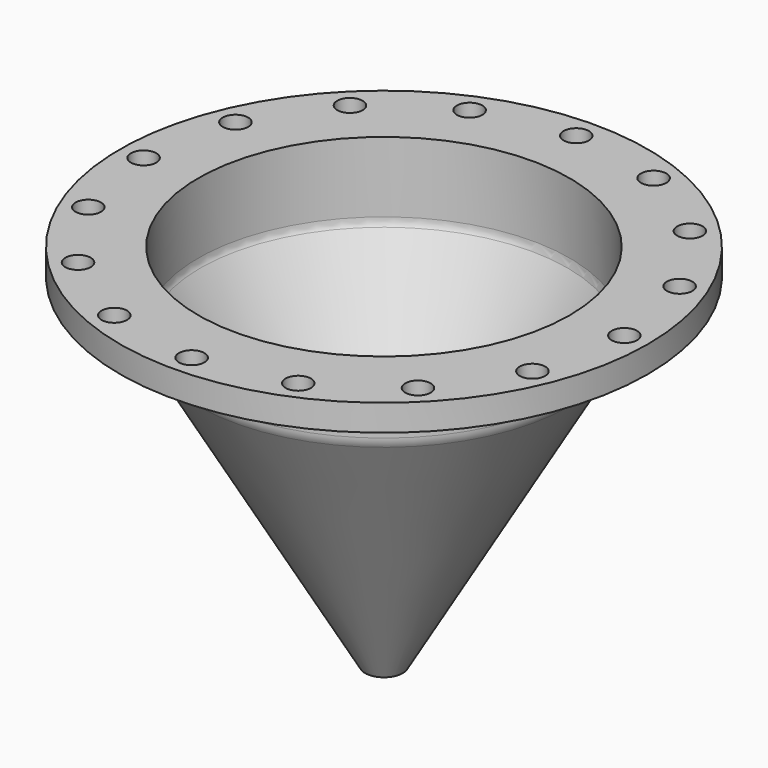
from build123d import *

# Parameters (mm, degrees)
F0_R     = 280
F0_R_2   = 200
F1_DEPTH = 28
F4_R     = 13.5
F5_DEPTH = 28


with BuildPart() as f1:
    # F0 (on Top) → F1 (new body)
    with BuildSketch(Plane.XY):
        Circle(F0_R)
        Circle(F0_R_2, mode=Mode.SUBTRACT)
    extrude(amount=F1_DEPTH)

    # F2 (on Front) → F3 (revolve)
    with BuildSketch(Plane.XZ):
        with BuildLine():
            Line((200, -46.641016), (200, 28))
            Line((200, 28), (197, 28))
            Line((197, 28), (197, -46.641016))
            ThreePointArc((197, -46.641016), (196.420739, -51.04094), (194.722432, -55.141016))
            Line((194.722432, -55.141016), (18.267949, -360.769145))
            Line((18.267949, -360.769145), (0, -360.769145))
            Line((0, -360.769145), (0, -363.769145))
            Line((0, -363.769145), (20, -363.769145))
            Line((20, -363.769145), (197.320508, -56.641016))
            ThreePointArc((197.320508, -56.641016), (199.318517, -51.817397), (200, -46.641016))
        make_face()
    revolve(axis=Axis((0, 0, -362.269145), (0, 0, -1)))

    # F4 (on face) → F5 (cut, through all)
    with BuildSketch(Plane.XY.offset(28)):
        with Locations((255, 0)):
            Circle(F4_R)
        with Locations((235.589281, 97.584275)):
            Circle(F4_R)
        with Locations((180.312229, 180.312229)):
            Circle(F4_R)
        with Locations((97.584275, 235.589281)):
            Circle(F4_R)
        with Locations((0, 255)):
            Circle(F4_R)
        with Locations((-97.584275, 235.589281)):
            Circle(F4_R)
        with Locations((-180.312229, 180.312229)):
            Circle(F4_R)
        with Locations((-235.589281, 97.584275)):
            Circle(F4_R)
        with Locations((-255, 0)):
            Circle(F4_R)
        with Locations((-235.589281, -97.584275)):
            Circle(F4_R)
        with Locations((-180.312229, -180.312229)):
            Circle(F4_R)
        with Locations((-97.584275, -235.589281)):
            Circle(F4_R)
        with Locations((0, -255)):
            Circle(F4_R)
        with Locations((97.584275, -235.589281)):
            Circle(F4_R)
        with Locations((180.312229, -180.312229)):
            Circle(F4_R)
        with Locations((235.589281, -97.584275)):
            Circle(F4_R)
    extrude(amount=-F5_DEPTH, mode=Mode.SUBTRACT)


solid = f1.part
